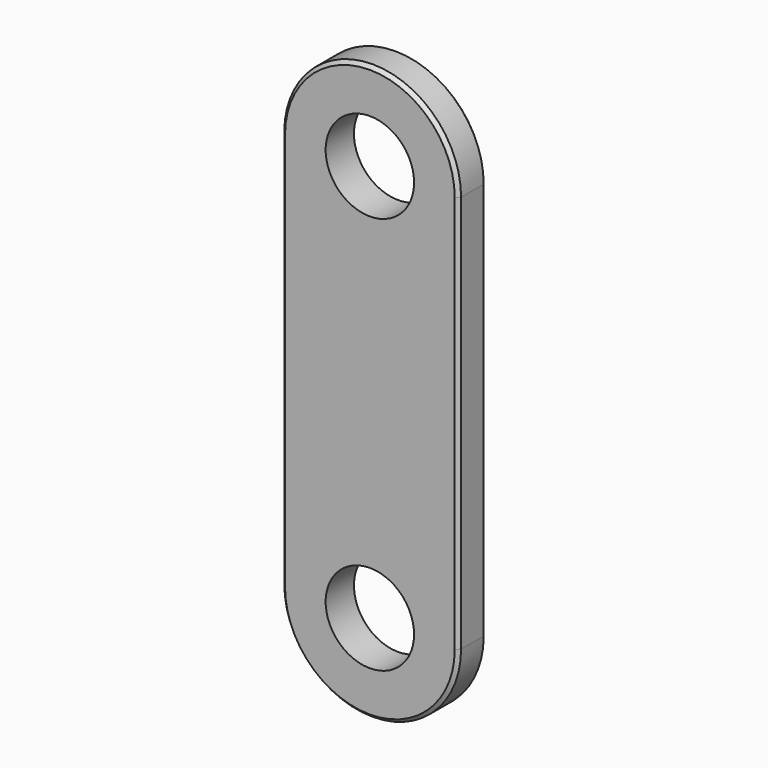
from build123d import *

# Parameters (mm, degrees)
F0_R     = 25
F1_DEPTH = 20
F2_SIZE2 = 2
F2_SIZE  = 2


with BuildPart() as f1:
    # F0 (on Front) → F1 (new body)
    with BuildSketch(Plane.XZ):
        with BuildLine():
            ThreePointArc((-50, 225), (0, 175), (50, 225))
            ThreePointArc((50, 225), (0, 275), (-50, 225))
        make_face()
        with Locations((0, 225)):
            Circle(F0_R, mode=Mode.SUBTRACT)
        with BuildLine():
            Line((50, 0), (50, 225))
            ThreePointArc((50, 225), (0, 175), (-50, 225))
            Line((-50, 225), (-50, 0))
            ThreePointArc((-50, 0), (0, 50), (50, 0))
        make_face()
        with BuildLine():
            ThreePointArc((-50, 0), (0, -50), (50, 0))
            ThreePointArc((50, 0), (0, 50), (-50, 0))
        make_face()
        Circle(F0_R, mode=Mode.SUBTRACT)
    extrude(amount=F1_DEPTH)

    # F2
    f2_edges = [f1.edges().sort_by_distance(p)[0] for p in [
        (0, -20, 275),
        (0, 0, 275),
    ]]
    chamfer(f2_edges, length=F2_SIZE, length2=F2_SIZE2)


solid = f1.part
